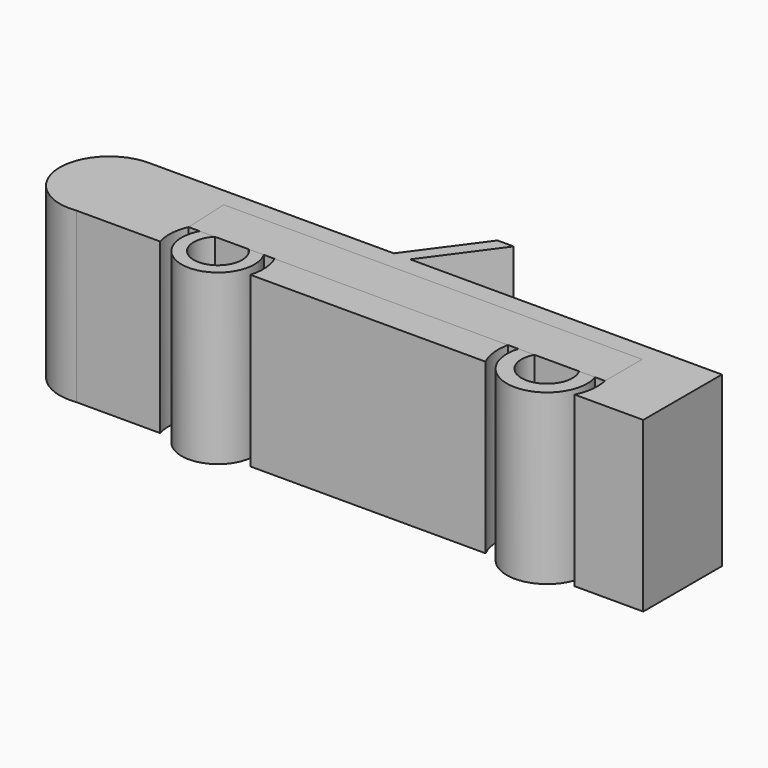
from build123d import *

# Parameters (mm, degrees)
F1_DEPTH  = 76.2
F2_R      = 16.4452720744
F3_DEPTH  = 25.4
F4_R      = 18.1682730775
F5_DEPTH  = 25.4
F6_DEPTH  = 25.4
F7_DEPTH  = 25.4
F8_DEPTH  = 25.4
F9_DEPTH  = 25.4
F10_R     = 10.922
F11_DEPTH = 134.112
F12_R     = 11.5014392976
F13_DEPTH = 76.2
F15_DEPTH = 73.914


with BuildPart() as f1:
    # F0 (on Top) → F1 (new body)
    with BuildSketch(Plane.XY):
        with BuildLine():
            Line((-62.2958354652, 16.4899136871), (-131.8960487843, 16.4899136871))
            Line((-131.8960487843, 16.4899136871), (-173.0117797852, 16.4899136871))
            ThreePointArc((-173.0117797852, 16.4899136871), (-195.2694742961, -7.2371742186), (-170.1698005199, -27.9346629977))
            Line((-170.1698005199, -27.9346629977), (-132.3144286871, -27.9346629977))
            ThreePointArc((-132.3144286871, -27.9346629977), (-111.9615621865, -0.4898018185), (-91.6086956859, -27.9346629977))
            Line((-91.6086956859, -27.9346629977), (14.6319679916, -27.9346629977))
            ThreePointArc((14.6319679916, -27.9346629977), (34.7809791565, 4.4211238029), (54.9299903214, -27.9346629977))
            Line((54.9299903214, -27.9346629977), (85.8727321029, -27.9346629977))
            Line((85.8727321029, -27.9346629977), (85.8727321029, 16.4899136871))
            Line((85.8727321029, 16.4899136871), (-54.96006459, 16.4899136871))
            Line((-54.96006459, 16.4899136871), (-62.2958354652, 16.4899136871))
        make_face()
        Polygon((-39.9097986519, 47.0163226128), (-62.2958354652, 16.4899136871), (-54.96006459, 16.4899136871), (-32.5740277767, 47.0163226128), align=None)
    extrude(amount=F1_DEPTH)


with BuildPart() as f3:
    # F2 (on Top) → F3 (new body)
    with BuildSketch(Plane.XY):
        with Locations((-111.8478253484, -20.8659172058)):
            Circle(F2_R)
    extrude(amount=F3_DEPTH)

    # F6 (add): a face of the model
    f6_faces = [f3.faces().sort_by_distance(p)[0] for p in [
        (-111.8478253484, -20.8659172058, 25.4),
    ]]
    extrude(f6_faces, amount=F6_DEPTH)

    # F7 (add): a face of the model
    f7_faces = [f3.faces().sort_by_distance(p)[0] for p in [
        (-111.8478253484, -20.8659172058, 50.8),
    ]]
    extrude(f7_faces, amount=F7_DEPTH)

    # F10 (on face) → F11 (cut)
    with BuildSketch(Plane.XY.offset(76.2)):
        with Locations((-111.8478253484, -20.8659172058)):
            Circle(F10_R)
    extrude(amount=-F11_DEPTH, mode=Mode.SUBTRACT)


with BuildPart() as f5:
    # F4 (on Top) → F5 (new body)
    with BuildSketch(Plane.XY):
        with Locations((34.9331013858, -18.5634717345)):
            Circle(F4_R)
    extrude(amount=F5_DEPTH)

    # F8 (add): a face of the model
    f8_faces = [f5.faces().sort_by_distance(p)[0] for p in [
        (34.9331013858, -18.5634717345, 25.4),
    ]]
    extrude(f8_faces, amount=F8_DEPTH)

    # F9 (add): a face of the model
    f9_faces = [f5.faces().sort_by_distance(p)[0] for p in [
        (34.9331013858, -18.5634717345, 50.8),
    ]]
    extrude(f9_faces, amount=F9_DEPTH)

    # F12 (on face) → F13 (cut)
    with BuildSketch(Plane.XY.offset(76.2)):
        with Locations((34.9331013858, -18.5634717345)):
            Circle(F12_R)
    extrude(amount=-F13_DEPTH, mode=Mode.SUBTRACT)


with BuildPart() as f15:
    # F14 (on face) → F15 (new body)
    with BuildSketch(Plane.XY.offset(76.2)):
        Polygon((-132.3144286871, 7.9584084451), (-131.3663326487, -13.0507678567), (56.6733867137, -13.0507678567), (56.6733867137, 7.9584084451), align=None)
    extrude(amount=-F15_DEPTH)


solid = Compound([f1.part, f3.part, f5.part, f15.part])
